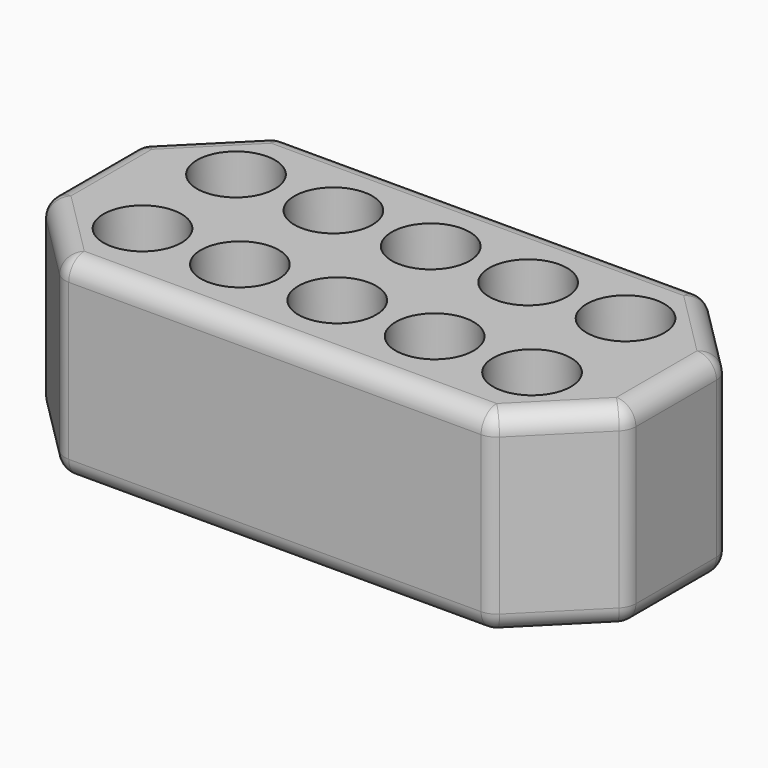
from build123d import *

# Parameters (mm, degrees)
F0_W      = 75
F0_H      = 35
F1_DEPTH  = 25
F2_R      = 4.25
F2_R_2    = 1.25
F4_DEPTH  = 8.3
F5_DEPTH  = 15
F2_R_3    = 5
F6_DEPTH  = 5.5
F3_R      = 4.25
F3_R_2    = 1.25
F7_DEPTH  = 8.3
F8_DEPTH  = 12
F3_R_3    = 5
F9_DEPTH  = 5.5
F10_R     = 1.25
F11_DEPTH = 64
F12_R     = 1.25
F13_DEPTH = 26.2
F14_R     = 1.25
F15_DEPTH = 7.5
F16_R     = 1.25
F17_DEPTH = 7.5
F18_SIZE  = 10
F19_R     = 2.5


with BuildPart() as f1:
    # F0 (on Top) → F1 (new body)
    with BuildSketch(Plane.XY):
        Rectangle(F0_W, F0_H)
    extrude(amount=F1_DEPTH)

    # F2 (on face) → F4 (cut)
    with BuildSketch(Plane.XY.offset(25)):
        with Locations((-25, 7.5)):
            Circle(F2_R)
        with Locations((-25, 7.5)):
            Circle(F2_R_2, mode=Mode.SUBTRACT)
        with Locations((-12.5, 7.5)):
            Circle(F2_R)
        with Locations((-12.5, 7.5)):
            Circle(F2_R_2, mode=Mode.SUBTRACT)
        with Locations((0, 7.5)):
            Circle(F2_R)
        with Locations((0, 7.5)):
            Circle(F2_R_2, mode=Mode.SUBTRACT)
        with Locations((12.5, 7.5)):
            Circle(F2_R)
        with Locations((12.5, 7.5)):
            Circle(F2_R_2, mode=Mode.SUBTRACT)
        with Locations((25, 7.5)):
            Circle(F2_R)
        with Locations((25, 7.5)):
            Circle(F2_R_2, mode=Mode.SUBTRACT)
        with Locations((-25, -7.5)):
            Circle(F2_R)
        with Locations((-25, -7.5)):
            Circle(F2_R_2, mode=Mode.SUBTRACT)
        with Locations((-12.5, -7.5)):
            Circle(F2_R)
        with Locations((-12.5, -7.5)):
            Circle(F2_R_2, mode=Mode.SUBTRACT)
        with Locations((0, -7.5)):
            Circle(F2_R)
        with Locations((0, -7.5)):
            Circle(F2_R_2, mode=Mode.SUBTRACT)
        with Locations((12.5, -7.5)):
            Circle(F2_R)
        with Locations((12.5, -7.5)):
            Circle(F2_R_2, mode=Mode.SUBTRACT)
        with Locations((25, -7.5)):
            Circle(F2_R)
        with Locations((25, -7.5)):
            Circle(F2_R_2, mode=Mode.SUBTRACT)
    extrude(amount=-F4_DEPTH, mode=Mode.SUBTRACT)

    # F5 (cut): faces of the model
    f5_faces = [f1.faces().sort_by_distance(p)[0] for p in [
        (-25, 7.5, 25),
        (-12.5, 7.5, 25),
        (0, 7.5, 25),
        (12.5, 7.5, 25),
        (25, 7.5, 25),
        (-25, -7.5, 25),
        (-12.5, -7.5, 25),
        (0, -7.5, 25),
        (12.5, -7.5, 25),
        (25, -7.5, 25),
    ]]
    extrude(f5_faces, amount=-F5_DEPTH, mode=Mode.SUBTRACT)

    # F2 (on face) → F6 (cut)
    with BuildSketch(Plane.XY.offset(25)):
        with Locations((-25, 7.5)):
            Circle(F2_R_3)
        with Locations((-25, 7.5)):
            Circle(F2_R, mode=Mode.SUBTRACT)
        with Locations((-12.5, 7.5)):
            Circle(F2_R_3)
        with Locations((-12.5, 7.5)):
            Circle(F2_R, mode=Mode.SUBTRACT)
        with Locations((-25, -7.5)):
            Circle(F2_R_3)
        with Locations((-25, -7.5)):
            Circle(F2_R, mode=Mode.SUBTRACT)
        with Locations((-12.5, -7.5)):
            Circle(F2_R_3)
        with Locations((-12.5, -7.5)):
            Circle(F2_R, mode=Mode.SUBTRACT)
        with Locations((0, -7.5)):
            Circle(F2_R_3)
        with Locations((0, -7.5)):
            Circle(F2_R, mode=Mode.SUBTRACT)
        with Locations((12.5, -7.5)):
            Circle(F2_R_3)
        with Locations((12.5, -7.5)):
            Circle(F2_R, mode=Mode.SUBTRACT)
        with Locations((25, -7.5)):
            Circle(F2_R_3)
        with Locations((25, -7.5)):
            Circle(F2_R, mode=Mode.SUBTRACT)
        with Locations((0, 7.5)):
            Circle(F2_R_3)
        with Locations((0, 7.5)):
            Circle(F2_R, mode=Mode.SUBTRACT)
        with Locations((12.5, 7.5)):
            Circle(F2_R_3)
        with Locations((12.5, 7.5)):
            Circle(F2_R, mode=Mode.SUBTRACT)
        with Locations((25, 7.5)):
            Circle(F2_R_3)
        with Locations((25, 7.5)):
            Circle(F2_R, mode=Mode.SUBTRACT)
    extrude(amount=-F6_DEPTH, mode=Mode.SUBTRACT)

    # F3 (on face) → F7 (cut)
    with BuildSketch(Plane(origin=(0, 0, 0), x_dir=(1, 0, 0), z_dir=(0, 0, -1))):
        Circle(F3_R)
        Circle(F3_R_2, mode=Mode.SUBTRACT)
    extrude(amount=-F7_DEPTH, mode=Mode.SUBTRACT)

    # F8 (cut): a face of the model
    f8_faces = [f1.faces().sort_by_distance(p)[0] for p in [
        (0, 0, 0),
    ]]
    extrude(f8_faces, amount=-F8_DEPTH, mode=Mode.SUBTRACT)

    # F3 (on face) → F9 (cut)
    with BuildSketch(Plane(origin=(0, 0, 0), x_dir=(1, 0, 0), z_dir=(0, 0, -1))):
        Circle(F3_R_3)
        Circle(F3_R, mode=Mode.SUBTRACT)
    extrude(amount=-F9_DEPTH, mode=Mode.SUBTRACT)

    # F10 (on face) → F11 (cut)
    with BuildSketch(Plane.YZ.offset(37.5)):
        with Locations((7.5111407787, 9.9629918113)):
            Circle(F10_R)
        with Locations((-7.4760545976, 10.0037176162)):
            Circle(F10_R)
    extrude(amount=-F11_DEPTH, mode=Mode.SUBTRACT)

    # F12 (on face) → F13 (cut)
    with BuildSketch(Plane(origin=(0, 17.5, 0), x_dir=(-1, 0, 0), z_dir=(0, 1, 0))):
        with Locations((0, 9.965730831)):
            Circle(F12_R)
    extrude(amount=-F13_DEPTH, mode=Mode.SUBTRACT)

    # F14 (on face) → F15 (join)
    with BuildSketch(Plane.YZ.offset(37.5)):
        with Locations((-7.4760545976, 10.0037176162)):
            Circle(F14_R)
        with Locations((7.5111407787, 9.9629918113)):
            Circle(F14_R)
    extrude(amount=-F15_DEPTH)

    # F16 (on face) → F17 (join)
    with BuildSketch(Plane(origin=(0, 17.5, 0), x_dir=(-1, 0, 0), z_dir=(0, 1, 0))):
        with Locations((0, 9.965730831)):
            Circle(F16_R)
    extrude(amount=-F17_DEPTH)

    # F18
    f18_edges = [f1.edges().sort_by_distance(p)[0] for p in [
        (-37.5, 17.5, 12.5),
        (-37.5, -17.5, 12.5),
        (37.5, -17.5, 12.5),
        (37.5, 17.5, 12.5),
    ]]
    chamfer(f18_edges, length=F18_SIZE)

    # F19
    f19_edges = [f1.edges().sort_by_distance(p)[0] for p in [
        (-37.5, 7.5, 12.5),
        (-37.5, -7.5, 12.5),
        (32.5, -12.5, 25),
        (-27.5, 17.5, 12.5),
        (-32.5, 12.5, 25),
        (-32.5, 12.5, 0),
        (-37.5, 0, 25),
        (-37.5, 0, 0),
        (0, 17.5, 25),
        (0, 17.5, 0),
        (0, -17.5, 25),
        (-32.5, -12.5, 25),
        (-27.5, -17.5, 12.5),
        (-32.5, -12.5, 0),
        (27.5, -17.5, 12.5),
        (37.5, -7.5, 12.5),
        (32.5, -12.5, 0),
        (0, -17.5, 0),
        (37.5, 0, 25),
        (32.5, 12.5, 25),
        (37.5, 7.5, 12.5),
        (32.5, 12.5, 0),
        (27.5, 17.5, 12.5),
        (37.5, 0, 0),
    ]]
    fillet(f19_edges, radius=F19_R)


solid = f1.part
